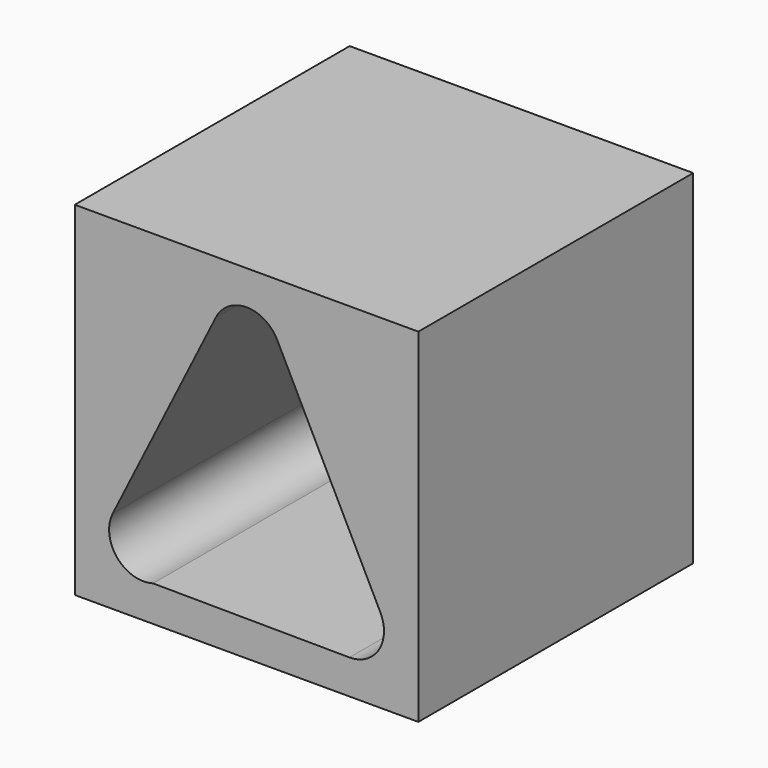
from build123d import *

# Parameters (mm, degrees)
F0_W     = 254
F0_H     = 254
F1_DEPTH = 254


with BuildPart() as f1:
    # F0 (on Front) → F1 (new body)
    with BuildSketch(Plane.XZ):
        with Locations((127, 127)):
            Rectangle(F0_W, F0_H)
        with BuildLine():
            ThreePointArc((57.879399, 26.382475), (31.26725, 34.527168), (28.06244, 62.172632))
            Line((28.06244, 62.172632), (104.283089, 214.562304))
            ThreePointArc((104.283089, 214.562304), (127.001721, 228.6), (149.718451, 214.559225))
            Line((149.718451, 214.559225), (225.918451, 62.159225))
            ThreePointArc((225.918451, 62.159225), (224.761241, 37.373426), (203.028179, 25.400581))
            Line((203.028179, 25.400581), (57.879399, 26.382475))
        make_face(mode=Mode.SUBTRACT)
    extrude(amount=-F1_DEPTH)


solid = f1.part
